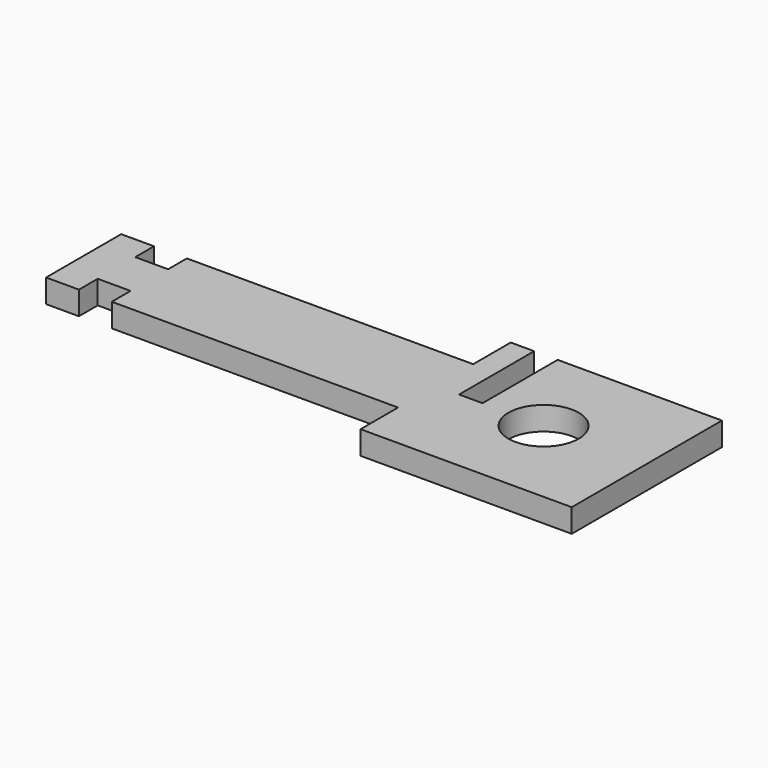
from build123d import *

# Parameters (mm, degrees)
F1_R     = 7.5
F2_DEPTH = 5


with BuildPart() as f2:
    # F1 (on Top) → F2 (new body)
    with BuildSketch(Plane.XY):
        Polygon((80.296967, 71.212121), (75.296967, 71.212121), (50.296967, 71.212121), (50.296967, 51.212121), (45.296967, 51.212121), (45.296967, 71.212121), (40.296967, 71.212121), (40.296967, 61.212121), (-20.703033, 61.212121), (-20.703033, 56.212121), (-27.703033, 56.212121), (-27.703033, 61.212121), (-34.703033, 61.212121), (-34.703033, 41.212121), (-27.703033, 41.212121), (-27.703033, 46.212121), (-20.703033, 46.212121), (-20.703033, 41.212121), (40.296967, 41.212121), (40.296967, 31.212121), (85.296967, 31.212121), (85.296967, 71.212121), align=None)
        with Locations((63.296967, 51.212121)):
            Circle(F1_R, mode=Mode.SUBTRACT)
    extrude(amount=F2_DEPTH)


solid = f2.part
